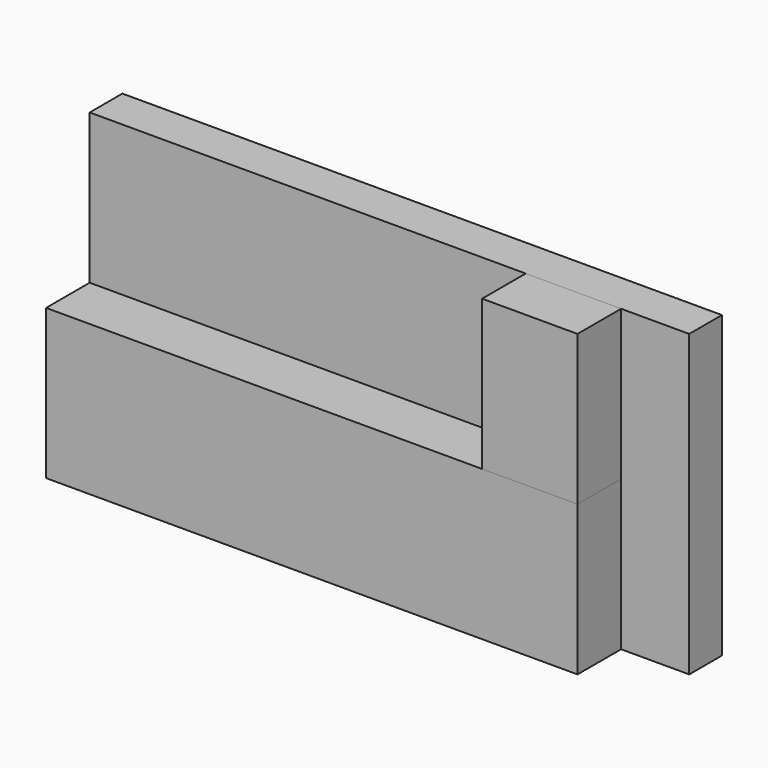
from build123d import *

# Parameters (mm, degrees)
F0_W     = 139.7
F0_H     = 69.85
F1_DEPTH = 9.525
F2_W     = 123.825
F2_H     = 34.925
F3_DEPTH = 12.7
F4_W     = 22.225
F4_H     = 34.925
F5_DEPTH = 12.7


with BuildPart() as f1:
    # F0 (on Front) → F1 (new body)
    with BuildSketch(Plane.XZ):
        with Locations((25.417753, -5.086776)):
            Rectangle(F0_W, F0_H)
    extrude(amount=F1_DEPTH)

    # F2 (on face) → F3 (join)
    with BuildSketch(Plane.XZ.offset(9.525)):
        with Locations((17.480253, -22.549276)):
            Rectangle(F2_W, F2_H)
    extrude(amount=F3_DEPTH)


with BuildPart() as f5:
    # F4 (on face) → F5 (new body)
    with BuildSketch(Plane.XZ.offset(9.525)):
        with Locations((68.280253, 12.375724)):
            Rectangle(F4_W, F4_H)
    extrude(amount=F5_DEPTH)


solid = Compound([f1.part, f5.part])
